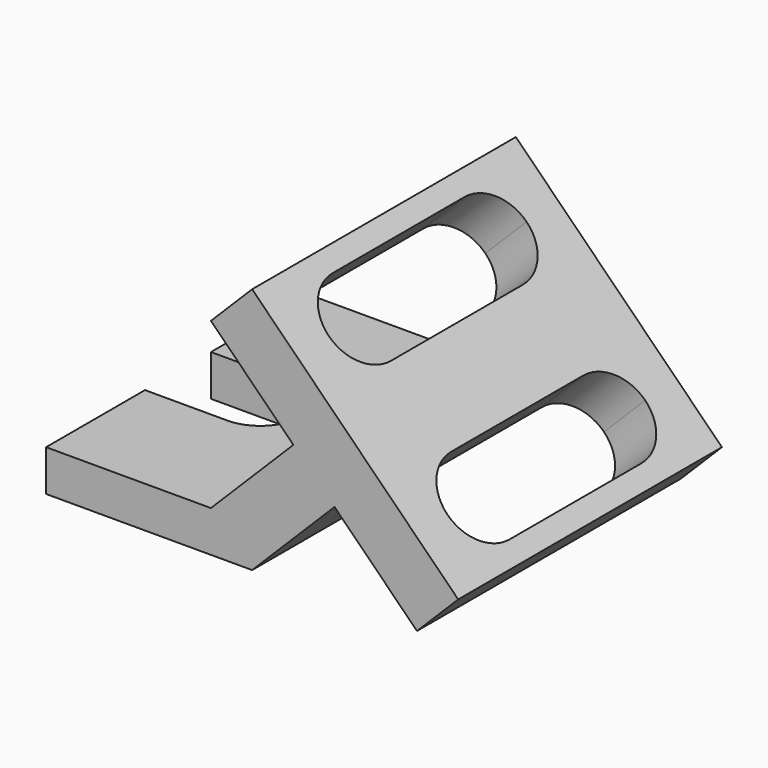
from build123d import *

# Parameters (mm, degrees)
F1_DEPTH = 101.6
F3_DEPTH = 25.4
F5_DEPTH = 37.846


with BuildPart() as f1:
    # F0 (on Front) → F1 (new body, symmetric)
    with BuildSketch(Plane.XZ):
        Polygon((152.4, 76.2), (152.4, 25.4), (177.8, 50.8), (228.6, 0), (254, 25.4), (127, 152.4), (101.6, 127), align=None)
        Polygon((152.4, 76.2), (101.6, 25.4), (152.4, 25.4), align=None)
        Polygon((0, 25.4), (0, 0), (127, 0), (152.4, 25.4), (101.6, 25.4), align=None)
    extrude(amount=F1_DEPTH, both=True)

    # F2 (on face) → F3 (cut)
    with BuildSketch(Plane(origin=(0, 0, 0), x_dir=(1, 0, 0), z_dir=(0, 0, -1))):
        with BuildLine():
            Line((0, 25.4), (0, 0))
            Line((0, 0), (0, -25.4))
            Line((0, -25.4), (50.8, -25.4))
            ThreePointArc((50.8, -25.4), (68.760512, -17.960512), (76.2, 0))
            ThreePointArc((76.2, 0), (68.760512, 17.960512), (50.8, 25.4))
            Line((50.8, 25.4), (0, 25.4))
        make_face()
    extrude(amount=-F3_DEPTH, mode=Mode.SUBTRACT)

    # F4 (on face) → F5 (cut)
    with BuildSketch(Plane(origin=(139.7, 0, 139.7), x_dir=(0, 1, 0), z_dir=(0.707107, 0, 0.707107))):
        with BuildLine():
            ThreePointArc((-76.2, -20.139488), (-68.760512, -38.1), (-50.8, -45.539488))
            Line((-50.8, -45.539488), (50.8, -45.539488))
            ThreePointArc((50.8, -45.539488), (68.760512, -38.1), (76.2, -20.139488))
            ThreePointArc((76.2, -20.139488), (68.760512, -2.178976), (50.8, 5.260512))
            Line((50.8, 5.260512), (-50.8, 5.260512))
            ThreePointArc((-50.8, 5.260512), (-68.760512, -2.178976), (-76.2, -20.139488))
        make_face()
        with BuildLine():
            ThreePointArc((50.8, -148.94461), (68.760512, -141.505122), (76.2, -123.54461))
            ThreePointArc((76.2, -123.54461), (68.760512, -105.584098), (50.8, -98.14461))
            Line((50.8, -98.14461), (-50.8, -98.14461))
            ThreePointArc((-50.8, -98.14461), (-68.760512, -105.584098), (-76.2, -123.54461))
            ThreePointArc((-76.2, -123.54461), (-68.760512, -141.505122), (-50.8, -148.94461))
            Line((-50.8, -148.94461), (50.8, -148.94461))
        make_face()
    extrude(amount=-F5_DEPTH, mode=Mode.SUBTRACT)


solid = f1.part
